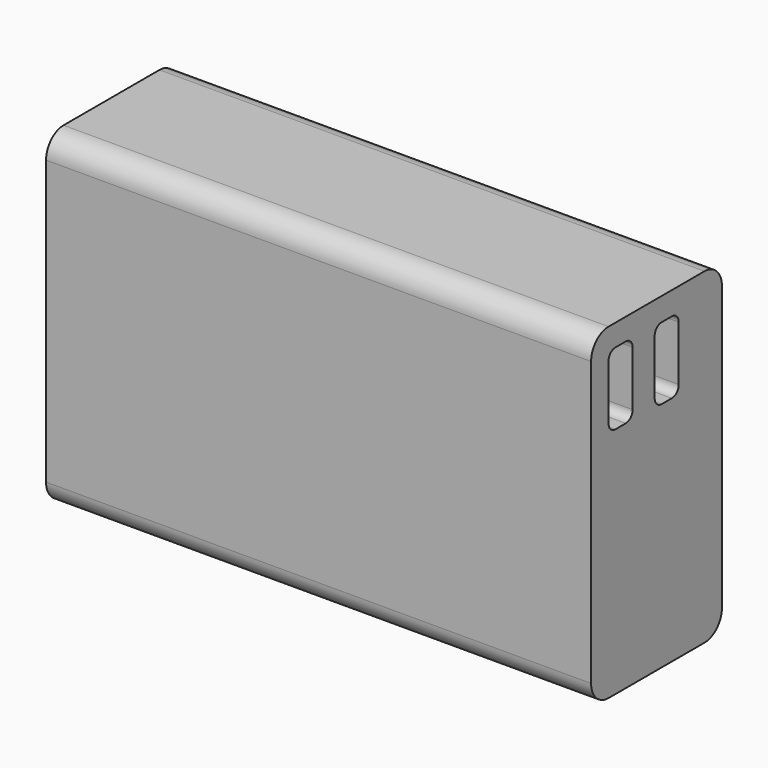
from build123d import *

# Parameters (mm, degrees)
F0_W     = 127
F0_H     = 76.2
F1_DEPTH = 38.1
F2_R     = 5.08
F4_DEPTH = 16.4
F6_DEPTH = 16.8


with BuildPart() as f1:
    # F0 (on Front) → F1 (new body)
    with BuildSketch(Plane.XZ):
        Rectangle(F0_W, F0_H)
    extrude(amount=F1_DEPTH)

    # F2
    f2_edges = [f1.edges().sort_by_distance(p)[0] for p in [
        (0, -38.1, 38.1),
        (0, 0, 38.1),
        (0, -38.1, -38.1),
        (0, 0, -38.1),
    ]]
    fillet(f2_edges, radius=F2_R)

    # F3 (on face) → F4 (cut)
    with BuildSketch(Plane.YZ.offset(63.5)):
        with BuildLine():
            Line((-28.02, 33.02), (-31.02, 33.02))
            ThreePointArc((-31.02, 33.02), (-32.434214, 32.434214), (-33.02, 31.02))
            Line((-33.02, 31.02), (-33.02, 18.22))
            ThreePointArc((-33.02, 18.22), (-32.434214, 16.805786), (-31.02, 16.22))
            Line((-31.02, 16.22), (-28.02, 16.22))
            ThreePointArc((-28.02, 16.22), (-26.605786, 16.805786), (-26.02, 18.22))
            Line((-26.02, 18.22), (-26.02, 31.02))
            ThreePointArc((-26.02, 31.02), (-26.605786, 32.434214), (-28.02, 33.02))
        make_face()
    extrude(amount=-F4_DEPTH, mode=Mode.SUBTRACT)

    # F5 (on face) → F6 (cut)
    with BuildSketch(Plane.YZ.offset(63.5)):
        with BuildLine():
            Line((-14.584209, 32.715682), (-17.584209, 32.715682))
            ThreePointArc((-17.584209, 32.715682), (-18.998423, 32.129895), (-19.584209, 30.715682))
            Line((-19.584209, 30.715682), (-19.584209, 17.915682))
            ThreePointArc((-19.584209, 17.915682), (-18.998423, 16.501468), (-17.584209, 15.915682))
            Line((-17.584209, 15.915682), (-14.584209, 15.915682))
            ThreePointArc((-14.584209, 15.915682), (-13.169996, 16.501468), (-12.584209, 17.915682))
            Line((-12.584209, 17.915682), (-12.584209, 30.715682))
            ThreePointArc((-12.584209, 30.715682), (-13.169996, 32.129895), (-14.584209, 32.715682))
        make_face()
    extrude(amount=-F6_DEPTH, mode=Mode.SUBTRACT)


solid = f1.part
